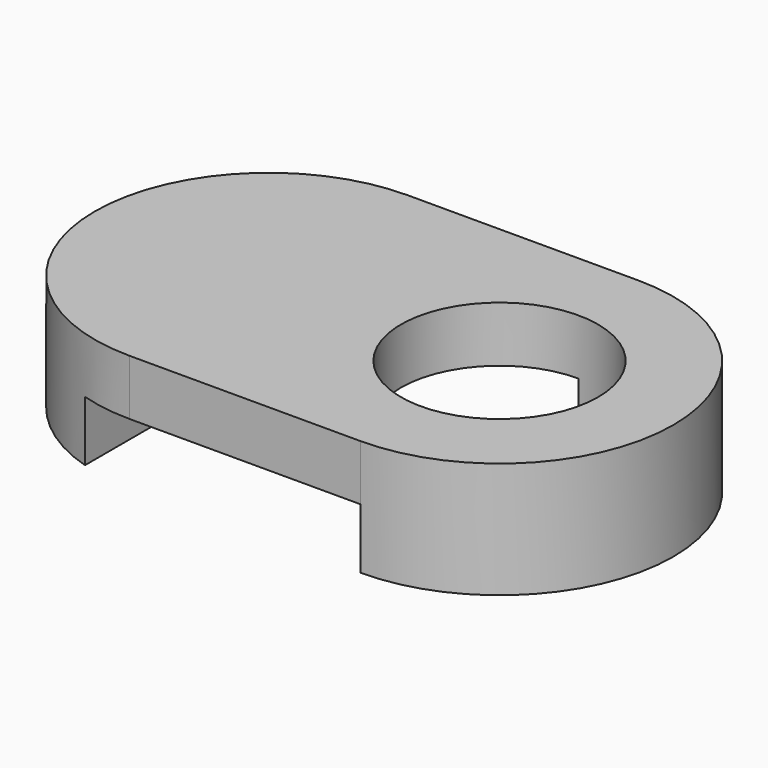
from build123d import *

# Parameters (mm, degrees)
F0_R          = 5.3975
F1_DEPTH      = 6.35
F2_W          = 15.4239367694
F2_H          = 3.302921541
F3_DEPTH      = 25.4
F3_DEPTH_BACK = 25.4


with BuildPart() as f1:
    # F0 (on Top) → F1 (new body)
    with BuildSketch(Plane.XY):
        with BuildLine():
            Line((0, 9.525), (-12.6440079791, 9.525))
            Line((-12.6440079791, 9.525), (-12.6440079791, -9.525))
            Line((-12.6440079791, -9.525), (0, -9.525))
            ThreePointArc((0, -9.525), (9.525, 0), (0, 9.525))
        make_face()
        Circle(F0_R, mode=Mode.SUBTRACT)
        with BuildLine():
            Line((-12.6440079791, -9.525), (-12.6440079791, 9.525))
            ThreePointArc((-12.6440079791, 9.525), (-22.1690079791, 0), (-12.6440079791, -9.525))
        make_face()
    extrude(amount=F1_DEPTH)

    # F2 (on Front) → F3 (cut, two sides)
    with BuildSketch(Plane.XZ) as f3_sk:
        with Locations((-7.7119683847, 1.6514607705)):
            Rectangle(F2_W, F2_H)
    extrude(amount=-F3_DEPTH, mode=Mode.SUBTRACT)
    extrude(f3_sk.sketch, amount=F3_DEPTH_BACK, mode=Mode.SUBTRACT)


solid = f1.part
